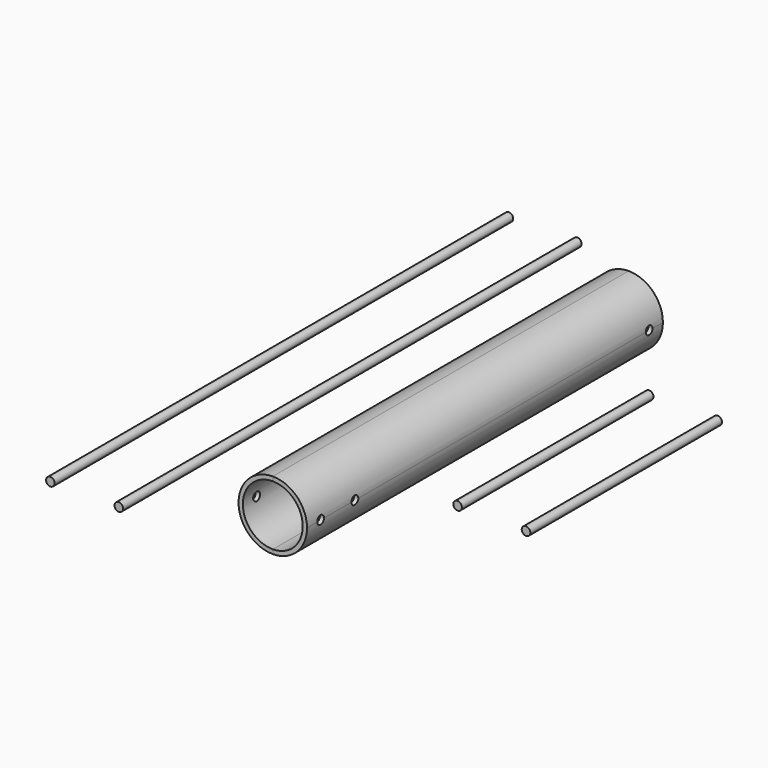
from build123d import *

# Parameters (mm, degrees)
F1_DEPTH      = 165.1
F2_DEPTH      = 165.1
F4_R          = 3.175
F5_DEPTH      = 25.401
F5_DEPTH_BACK = 25.401
F3_R          = 3.175
F6_DEPTH      = 212.725
F7_DEPTH      = 88.9


with BuildPart() as f1:
    # F0 (on Front) → F1 (new body, symmetric)
    with BuildSketch(Plane.XZ):
        with BuildLine():
            ThreePointArc((0, -22.225), (-22.225, 0), (0, 22.225))
            Line((0, 22.225), (0, 25.4))
            ThreePointArc((0, 25.4), (-25.4, 0), (0, -25.4))
            Line((0, -25.4), (0, -22.225))
        make_face()
    extrude(amount=F1_DEPTH, both=True)


with BuildPart() as f2:
    # F0 (on Front) → F2 (new body, symmetric)
    with BuildSketch(Plane.XZ):
        with BuildLine():
            ThreePointArc((0, 22.225), (15.7154482119, 15.7154482119), (22.225, 0))
            ThreePointArc((22.225, 0), (15.7154482119, -15.7154482119), (0, -22.225))
            Line((0, -22.225), (0, -25.4))
            ThreePointArc((0, -25.4), (17.9605122421, -17.9605122421), (25.4, 0))
            ThreePointArc((25.4, 0), (17.9605122421, 17.9605122421), (0, 25.4))
            Line((0, 25.4), (0, 22.225))
        make_face()
    extrude(amount=F2_DEPTH, both=True)


with BuildPart() as f5_tool:
    # F4 (on Right) → F5 (new body, two sides)
    with BuildSketch(Plane.YZ) as f5_sk:
        with Locations((-152.4, 0)):
            Circle(F4_R)
        with Locations((152.4, 0)):
            Circle(F4_R)
        with Locations((-120.65, 0)):
            Circle(F4_R)
    extrude(amount=-F5_DEPTH)
    extrude(f5_sk.sketch, amount=F5_DEPTH_BACK)


with BuildPart() as f1_1:
    add(f1.part)

    # F5: cut by f5_tool
    add(f5_tool.part, mode=Mode.SUBTRACT)


with BuildPart() as f2_1:
    add(f2.part)

    # F5: cut by f5_tool
    add(f5_tool.part, mode=Mode.SUBTRACT)


with BuildPart() as f6:
    # F3 (on Front) → F6 (new body, symmetric)
    with BuildSketch(Plane.XZ):
        with Locations((-127, 0)):
            Circle(F3_R)
    extrude(amount=F6_DEPTH, both=True)


with BuildPart() as f6b:
    # F3 (on Front) → F6, piece 2 (new body, symmetric)
    with BuildSketch(Plane.XZ):
        with Locations((-76.2, 0)):
            Circle(F3_R)
    extrude(amount=F6_DEPTH, both=True)


with BuildPart() as f7:
    # F3 (on Front) → F7 (new body, symmetric)
    with BuildSketch(Plane.XZ):
        with Locations((76.2, 0)):
            Circle(F3_R)
    extrude(amount=F7_DEPTH, both=True)


with BuildPart() as f7b:
    # F3 (on Front) → F7, piece 2 (new body, symmetric)
    with BuildSketch(Plane.XZ):
        with Locations((127, 0)):
            Circle(F3_R)
    extrude(amount=F7_DEPTH, both=True)


solid = Compound([f1_1.part, f2_1.part, f6.part, f6b.part, f7.part, f7b.part])
